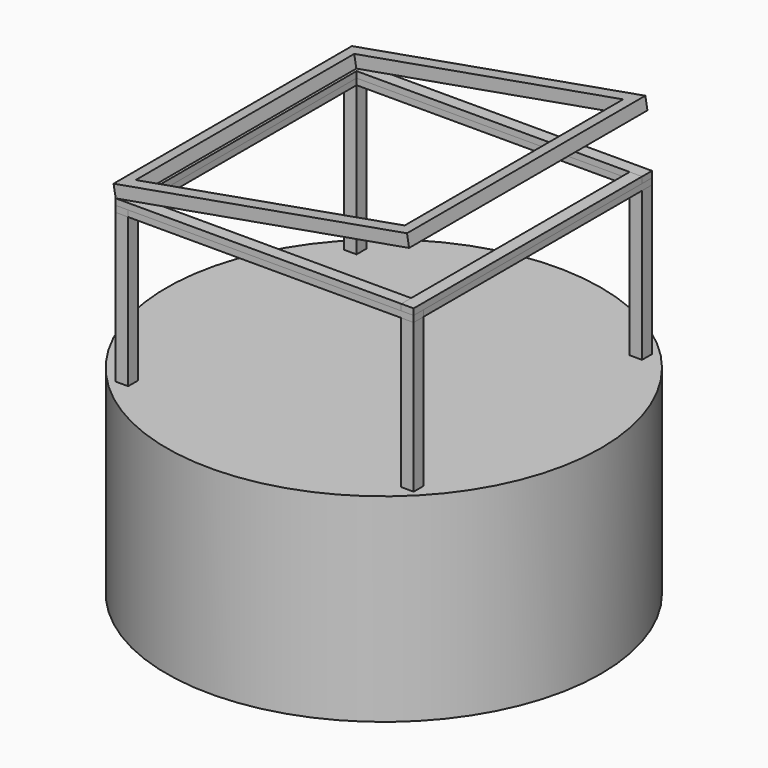
from build123d import *

# Parameters (mm, degrees)
F0_R      = 875
F1_DEPTH  = 800
F3_W      = 50
F3_H      = 1150
F4_DEPTH  = 25
F5_COUNT  = 4
F5_ANGLE  = 270
F6_W      = 1150
F6_H      = 50
F7_DEPTH  = 25
F8_COUNT  = 4
F8_ANGLE  = 270
F9_W      = 50
F9_H      = 50
F10_DEPTH = 800
F11_COUNT = 4
F11_ANGLE = 270
F13_W     = 1200
F13_H     = 1200
F13_W_2   = 1100
F13_H_2   = 1100
F14_DEPTH = 50


with BuildPart() as f1:
    # F0 (on Top) → F1 (new body)
    with BuildSketch(Plane.XY):
        Circle(F0_R)
    extrude(amount=-F1_DEPTH)


with BuildPart() as f4:
    # F3 (on offset) → F4 (new body)
    with BuildSketch(Plane.XY.offset(600)):
        with Locations((575, 25)):
            Rectangle(F3_W, F3_H)
    extrude(amount=F4_DEPTH)


with BuildPart() as f5_1:
    # F5: instance of F4
    add(f4.part.rotate(Axis((0, 0, 0), (0, 0, 1)), 1 * F5_ANGLE / (F5_COUNT - 1)))


with BuildPart() as f5_2:
    # F5: instance of F4
    add(f4.part.rotate(Axis((0, 0, 0), (0, 0, 1)), 2 * F5_ANGLE / (F5_COUNT - 1)))


with BuildPart() as f5_3:
    # F5: instance of F4
    add(f4.part.rotate(Axis((0, 0, 0), (0, 0, 1)), 3 * F5_ANGLE / (F5_COUNT - 1)))


with BuildPart() as f7:
    # F6 (on face) → F7 (new body)
    with BuildSketch(Plane.XY.offset(625)):
        with Locations((-25, -575)):
            Rectangle(F6_W, F6_H)
    extrude(amount=F7_DEPTH)


with BuildPart() as f8_1:
    # F8: instance of F7
    add(f7.part.rotate(Axis((0, 0, 0), (0, 0, 1)), 1 * F8_ANGLE / (F8_COUNT - 1)))


with BuildPart() as f8_2:
    # F8: instance of F7
    add(f7.part.rotate(Axis((0, 0, 0), (0, 0, 1)), 2 * F8_ANGLE / (F8_COUNT - 1)))


with BuildPart() as f8_3:
    # F8: instance of F7
    add(f7.part.rotate(Axis((0, 0, 0), (0, 0, 1)), 3 * F8_ANGLE / (F8_COUNT - 1)))


with BuildPart() as f10:
    # F9 (on offset) → F10 (new body)
    with BuildSketch(Plane.XY.offset(600)):
        with Locations((575, -575)):
            Rectangle(F9_W, F9_H)
    extrude(amount=-F10_DEPTH)


with BuildPart() as f11_1:
    # F11: instance of F10
    add(f10.part.rotate(Axis((0, 0, 0), (0, 0, 1)), 1 * F11_ANGLE / (F11_COUNT - 1)))


with BuildPart() as f11_2:
    # F11: instance of F10
    add(f10.part.rotate(Axis((0, 0, 0), (0, 0, 1)), 2 * F11_ANGLE / (F11_COUNT - 1)))


with BuildPart() as f11_3:
    # F11: instance of F10
    add(f10.part.rotate(Axis((0, 0, 0), (0, 0, 1)), 3 * F11_ANGLE / (F11_COUNT - 1)))


with BuildPart() as f14:
    # F13 (on face) → F14 (new body)
    with BuildSketch(Plane(origin=(-129.2487603451, 0, 733.0061447531), x_dir=(0.984807753, 0, 0.1736481777), z_dir=(0.1736481777, 0, -0.984807753))):
        with Locations((121.9866636762, 0)):
            Rectangle(F13_W, F13_H)
        with Locations((121.9866636762, 0)):
            Rectangle(F13_W_2, F13_H_2, mode=Mode.SUBTRACT)
    extrude(amount=-F14_DEPTH)


solid = Compound([f1.part, f4.part, f5_1.part, f5_2.part, f5_3.part, f7.part, f8_1.part, f8_2.part, f8_3.part, f10.part, f11_1.part, f11_2.part, f11_3.part, f14.part])
